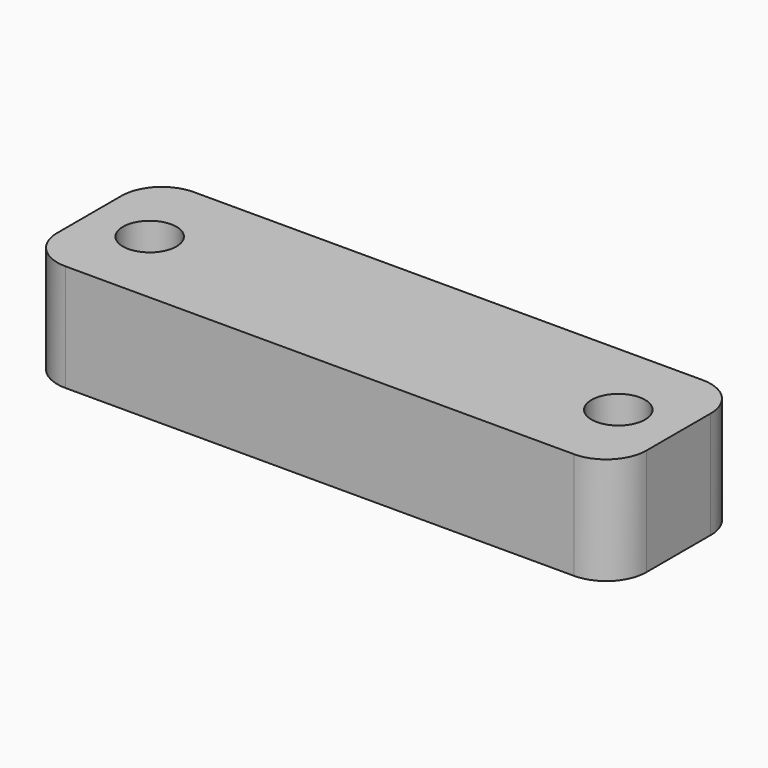
from build123d import *

# Parameters (mm, degrees)
CYLINDER_R     = 2
CYLINDER_DEPTH = 15
ARRAY_X_COUNT  = 2
ARRAY_X_PITCH  = 35
BOX_W          = 44
BOX_H          = 12
BOX_DEPTH      = 8
FILLET003_R    = 3


with BuildPart() as array:
    # Cylinder → Cylinder (new body)
    with BuildSketch(Plane(origin=(-17.5, 0, -10), x_dir=(1, 0, 0), z_dir=(0, 0, 1))):
        Circle(CYLINDER_R)
    extrude(amount=CYLINDER_DEPTH)

    # Array X: Array ×2


with BuildPart() as array_1:
    add(array.part)
    with Locations(*[(i * ARRAY_X_PITCH, 0, 0) for i in range(1, ARRAY_X_COUNT)]):
        add(array.part)


with BuildPart() as cut:
    # Box → Box (new body)
    with BuildSketch(Plane(origin=(-22, -6, -8), x_dir=(1, 0, 0), z_dir=(0, 0, 1))):
        with Locations((22, 6)):
            Rectangle(BOX_W, BOX_H)
    extrude(amount=BOX_DEPTH)

    # Fillet003
    fillet003_edges = [cut.edges().sort_by_distance(p)[0] for p in [
        (-22, -6, -4),
        (-22, 6, -4),
        (22, -6, -4),
        (22, 6, -4),
    ]]
    fillet(fillet003_edges, radius=FILLET003_R)

    # Cut: cut Array
    add(array_1.part, mode=Mode.SUBTRACT)


solid = cut.part
